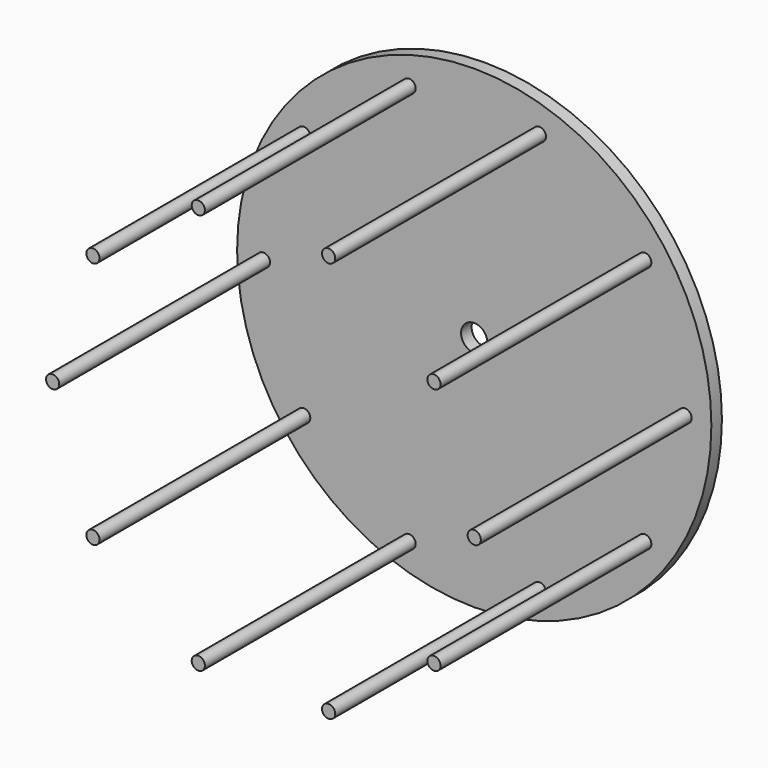
from build123d import *

# Parameters (mm, degrees)
F0_R     = 114.3
F0_R_2   = 6.35
F1_DEPTH = 6.35
F2_R     = 3.175
F3_DEPTH = 127


with BuildPart() as f1:
    # F0 (on Front) → F1 (new body)
    with BuildSketch(Plane.XZ):
        Circle(F0_R)
        Circle(F0_R_2, mode=Mode.SUBTRACT)
    extrude(amount=F1_DEPTH)

    # F2 (on face) → F3 (join)
    with BuildSketch(Plane.XZ.offset(6.35)):
        with Locations((101.6, 0)):
            Circle(F2_R)
        with Locations((82.196127, 59.718982)):
            Circle(F2_R)
        with Locations((31.396127, 96.627342)):
            Circle(F2_R)
        with Locations((-31.396127, 96.627342)):
            Circle(F2_R)
        with Locations((-82.196127, 59.718982)):
            Circle(F2_R)
        with Locations((-101.6, 0)):
            Circle(F2_R)
        with Locations((-82.196127, -59.718982)):
            Circle(F2_R)
        with Locations((-31.396127, -96.627342)):
            Circle(F2_R)
        with Locations((31.396127, -96.627342)):
            Circle(F2_R)
        with Locations((82.196127, -59.718982)):
            Circle(F2_R)
    extrude(amount=F3_DEPTH)


solid = f1.part
